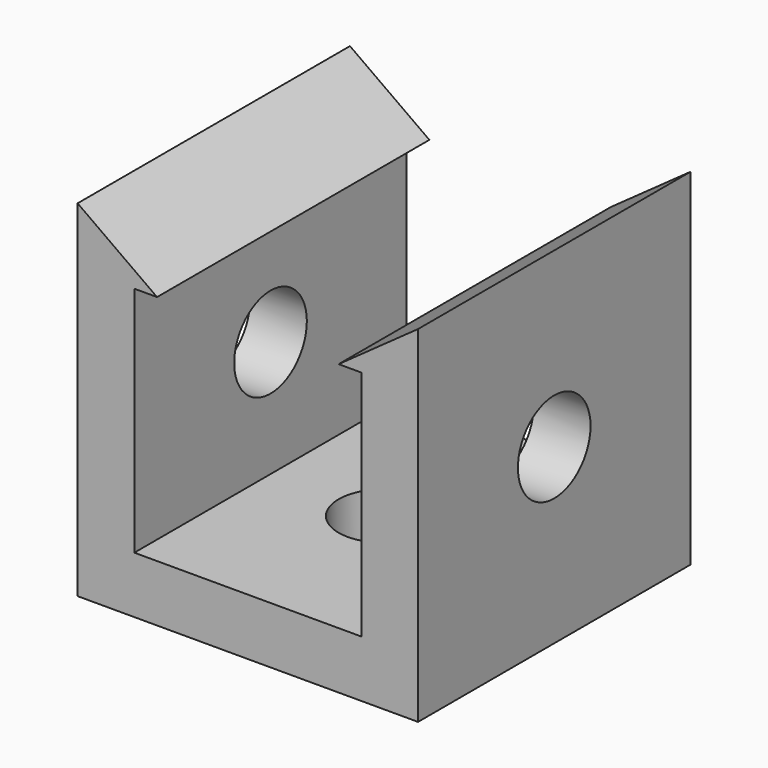
from build123d import *

# Parameters (mm, degrees)
F1_DEPTH = 9.525
F2_R     = 2.54
F3_DEPTH = 19.355562
F4_R     = 2.54
F5_DEPTH = 19.051


with BuildPart() as f1:
    # F0 (on Front) → F1 (new body, symmetric)
    with BuildSketch(Plane.XZ):
        Polygon((-9.525, -9.677281), (9.525, -9.677281), (9.525, 9.677281), (5.08, 6.502281), (6.35, 6.502281), (6.35, -6.502281), (-6.35, -6.502281), (-6.35, 6.502281), (-5.08, 6.502281), (-9.525, 9.677281), align=None)
    extrude(amount=F1_DEPTH, both=True)

    # F2 (on face) → F3 (cut, through all)
    with BuildSketch(Plane(origin=(0, 0, -9.677281), x_dir=(1, 0, 0), z_dir=(0, 0, -1))):
        Circle(F2_R)
    extrude(amount=-F3_DEPTH, mode=Mode.SUBTRACT)

    # F4 (on face) → F5 (cut, through all)
    with BuildSketch(Plane.YZ.offset(9.525)):
        Circle(F4_R)
    extrude(amount=-F5_DEPTH, mode=Mode.SUBTRACT)


solid = f1.part
